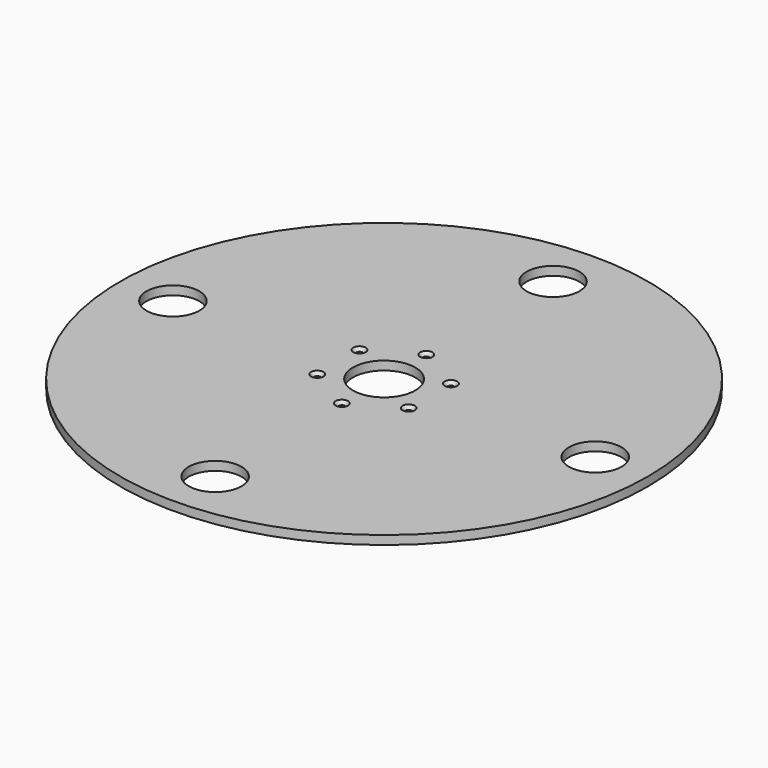
from build123d import *

# Parameters (mm, degrees)
F0_R           = 381
F1_DEPTH       = 12.7
F3_D           = 90
F5_D           = 8.8
F5_CSINK_D     = 17.92
F5_CSINK_ANGLE = 90
F7_D           = 76.2


with BuildPart() as f1:
    # F0 (on Top) → F1 (new body)
    with BuildSketch(Plane.XY):
        Circle(F0_R)
    extrude(amount=-F1_DEPTH)

    # F3 (through all)
    with Locations(Plane.XY):
        with Locations((0, 0)):
            Hole(F3_D / 2)

    # F5 (through all)
    with Locations(Plane.XY):
        with Locations((0, 76.2), (65.9911357684, 38.1), (65.9911357684, -38.1), (0, -76.2), (-65.9911357684, -38.1), (-65.9911357684, 38.1)):
            CounterSinkHole(F5_D / 2, F5_CSINK_D / 2, counter_sink_angle=F5_CSINK_ANGLE)

    # F7 (through all)
    with Locations(Plane.XY):
        with Locations((0, 304.8), (304.8, 0), (0, -304.8), (-304.8, 0)):
            Hole(F7_D / 2)


solid = f1.part
